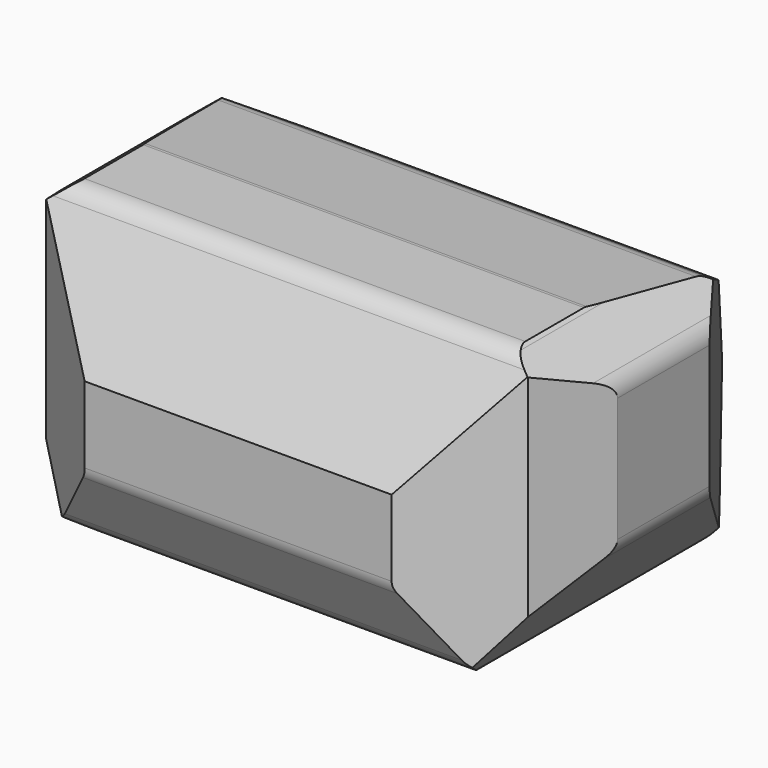
from build123d import *

# Parameters (mm, degrees)
F2_DEPTH = 431.8
F3_DEPTH = 300
F5_DEPTH = 335.336541


with BuildPart() as f2:
    # F0 (on Front) → F2 (new body)
    with BuildSketch(Plane.XZ):
        with BuildLine():
            ThreePointArc((-215.083709, 28.186797), (-206.182504, 20.924757), (-194.992326, 18.326948))
            Line((-194.992326, 18.326948), (194.992326, 18.326948))
            ThreePointArc((194.992326, 18.326948), (206.182504, 20.924757), (215.083709, 28.186797))
            Line((215.083709, 28.186797), (291.649465, 127.176309))
            ThreePointArc((291.649465, 127.176309), (295.594316, 134.505526), (296.958081, 142.71646))
            Line((296.958081, 142.71646), (296.958081, 277.847902))
            ThreePointArc((296.958081, 277.847902), (294.447383, 288.858799), (287.411636, 297.692921))
            Line((287.411636, 297.692921), (243.500706, 332.771967))
            ThreePointArc((243.500706, 332.771967), (236.046451, 336.898009), (227.647151, 338.326948))
            Line((227.647151, 338.326948), (-227.647151, 338.326948))
            ThreePointArc((-227.647151, 338.326948), (-236.046451, 336.898009), (-243.500706, 332.771967))
            Line((-243.500706, 332.771967), (-283.495474, 300.821419))
            ThreePointArc((-283.495474, 300.821419), (-290.531221, 291.987297), (-293.041919, 280.9764))
            Line((-293.041919, 280.9764), (-293.041919, 128.976569))
            Line((-293.041919, 128.976569), (-215.083709, 28.186797))
        make_face()
    extrude(amount=-F2_DEPTH)

    # F1 (on Right) → F3 (intersect, symmetric)
    with BuildSketch(Plane.YZ):
        with BuildLine():
            Line((80.317164, 15.33554), (122.591108, 15.33554))
            Line((122.591108, 15.33554), (341.597618, 15.33554))
            ThreePointArc((341.597618, 15.33554), (372.701891, 25.971325), (390.78182, 53.425138))
            Line((390.78182, 53.425138), (416.052516, 151.212684))
            ThreePointArc((416.052516, 151.212684), (417.546314, 167.441665), (413.824101, 183.308498))
            Line((413.824101, 183.308498), (380.432576, 264.190209))
            ThreePointArc((380.432576, 264.190209), (376.455207, 270.772931), (370.689926, 275.863436))
            Line((370.689926, 275.863436), (308.221791, 316.021523))
            ThreePointArc((308.221791, 316.021523), (303.123356, 318.542104), (297.591884, 319.86505))
            Line((297.591884, 319.86505), (173.547573, 335.145001))
            ThreePointArc((173.547573, 335.145001), (171.997825, 335.287861), (170.442237, 335.33554))
            Line((170.442237, 335.33554), (122.591108, 335.33554))
            Line((122.591108, 335.33554), (90.687651, 335.33554))
            ThreePointArc((90.687651, 335.33554), (77.918617, 331.892584), (68.611255, 322.497098))
            Line((68.611255, 322.497098), (0, 201.915771))
            Line((0, 201.915771), (0, 118.959656))
            ThreePointArc((0, 118.959656), (0.696999, 113.050193), (2.749745, 107.465051))
            Line((2.749745, 107.465051), (34.218363, 45.45577))
            ThreePointArc((34.218363, 45.45577), (37.734355, 40.245886), (42.421994, 36.058868))
            Line((42.421994, 36.058868), (65.87054, 19.844034))
            ThreePointArc((65.87054, 19.844034), (72.750271, 16.488847), (80.317164, 15.33554))
        make_face()
    extrude(amount=F3_DEPTH, both=True, mode=Mode.INTERSECT)

    # F4 (on Top) → F5 (intersect, through all)
    with BuildSketch(Plane.XY):
        Polygon((-166.86368, 0), (0, 0), (166.86368, 0), (262.060732, 66.595584), (297.64843, 145.778194), (297.64843, 268.555701), (190.885365, 418.913692), (0, 418.913692), (-190.885365, 418.913692), (-297.64843, 268.555701), (-297.64843, 145.778194), (-262.060732, 66.595584), align=None)
    extrude(amount=F5_DEPTH, mode=Mode.INTERSECT)


solid = f2.part
